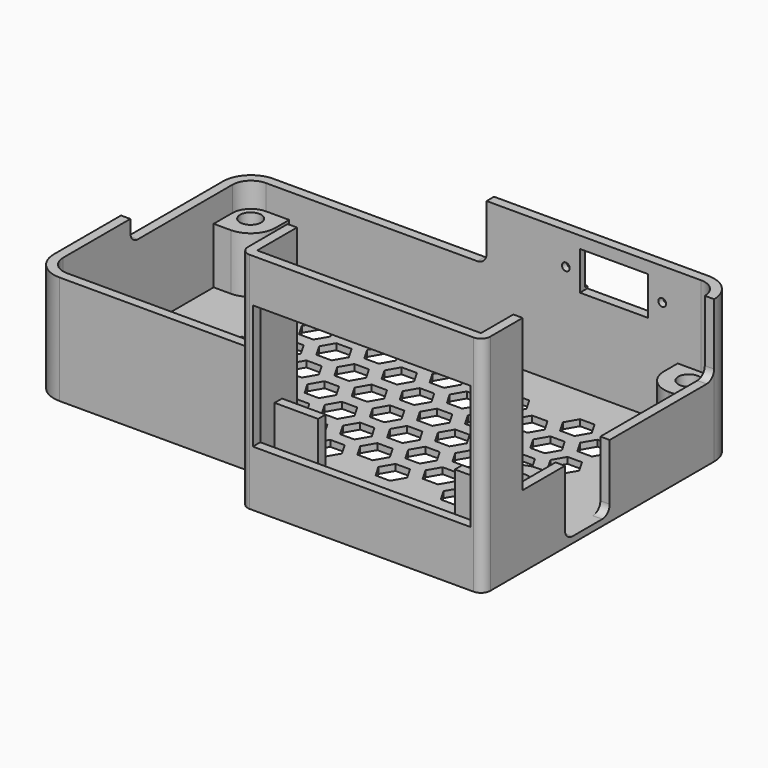
from build123d import *

# Parameters (mm, degrees)
PAD_DEPTH                       = 36
POCKET_DEPTH                    = 35
SKETCH002_R                     = 1.7
PAD001_DEPTH                    = 9
SKETCH005_W                     = 20
SKETCH005_H                     = 5.5
POCKET001_DEPTH                 = 0.5
SKETCH006_R                     = 0.625
SKETCH006_W                     = 11
SKETCH006_H                     = 6.2
POCKET002_DEPTH                 = 5
POCKET003_DEPTH                 = 1.5
POCKET004_DEPTH                 = 5
POCKET005_DEPTH                 = 39
SKETCH011_W                     = 35
SKETCH011_H                     = 20
POCKET006_DEPTH                 = 1.5
SKETCH012_W                     = 7
SKETCH012_H                     = 1.5
PAD002_DEPTH                    = 12
POCKET008_DEPTH                 = 5
POCKET009_DEPTH                 = 5
POCKET009_LINEARPATTERN_2_DEPTH = 5
POCKET009_LINEARPATTERN_3_DEPTH = 5
POCKET009_LINEARPATTERN_4_DEPTH = 5
LINEARPATTERN001_COUNT          = 5
LINEARPATTERN001_PITCH          = 10.5


with BuildPart() as part:
    # Sketch → Pad (new body)
    with BuildSketch(Plane.XY):
        with BuildLine():
            Line((-35, 21.5), (35, 21.5))
            ThreePointArc((39.5, 17), (38.181981, 20.181981), (35, 21.5))
            Line((39.5, 17), (39.5, -28))
            ThreePointArc((38, -29.5), (39.06066, -29.06066), (39.5, -28))
            Line((38, -29.5), (2, -29.5))
            ThreePointArc((0.5, -28), (0.93934, -29.06066), (2, -29.5))
            Line((0.5, -28), (0.5, -21.5))
            Line((0.5, -21.5), (-35, -21.5))
            ThreePointArc((-39.5, -17), (-38.181981, -20.181981), (-35, -21.5))
            Line((-39.5, -17), (-39.5, 17))
            ThreePointArc((-35, 21.5), (-38.181981, 20.181981), (-39.5, 17))
        make_face()
    extrude(amount=PAD_DEPTH)

    # Sketch001 (on Face13 of Pad) → Pocket (cut)
    with BuildSketch(Plane.XY.offset(36)):
        with BuildLine():
            Line((35, 20), (-35, 20))
            ThreePointArc((-35, 20), (-37.12132, 19.12132), (-38, 17))
            Line((-38, -17), (-38, 17))
            ThreePointArc((-38, -17), (-37.12132, -19.12132), (-35, -20))
            Line((2, -20), (-35, -20))
            Line((2, -20), (2, -28))
            Line((2, -28), (38, -28))
            Line((38, -28), (38, 17))
            ThreePointArc((38, 17), (37.12132, 19.12132), (35, 20))
        make_face()
    extrude(amount=-POCKET_DEPTH, mode=Mode.SUBTRACT)

    # Sketch002 (on Face23 of Pocket) → Pad001 (join)
    with BuildSketch(Plane.XY.offset(1)):
        with BuildLine():
            Line((-35.25, 20.25), (-31.25, 20.25))
            Line((-31.25, 20.25), (-31.25, 17.25))
            ThreePointArc((-35.25, 13.25), (-32.421573, 14.421573), (-31.25, 17.25))
            Line((-35.25, 13.25), (-38.25, 13.25))
            Line((-38.25, 13.25), (-38.25, 17.25))
            ThreePointArc((-35.25, 20.25), (-37.37132, 19.37132), (-38.25, 17.25))
        make_face()
        with Locations((-35.25, 17.25)):
            Circle(SKETCH002_R, mode=Mode.SUBTRACT)
        with BuildLine():
            Line((35.25, 20.25), (31.25, 20.25))
            Line((31.25, 20.25), (31.25, 17.25))
            ThreePointArc((31.25, 17.25), (32.421573, 14.421573), (35.25, 13.25))
            Line((35.25, 13.25), (38.25, 13.25))
            Line((38.25, 13.25), (38.25, 17.25))
            ThreePointArc((38.25, 17.25), (37.37132, 19.37132), (35.25, 20.25))
        make_face()
        with Locations((35.25, 17.25)):
            Circle(SKETCH002_R, mode=Mode.SUBTRACT)
        with BuildLine():
            Line((-38, -13), (-35, -13))
            ThreePointArc((-31, -17), (-32.171573, -14.171573), (-35, -13))
            Line((-31, -17), (-31, -20))
            Line((-31, -20), (-35, -20))
            ThreePointArc((-38, -17), (-37.12132, -19.12132), (-35, -20))
            Line((-38, -17), (-38, -13))
        make_face()
        with Locations((-35.25, -17.25)):
            Circle(SKETCH002_R, mode=Mode.SUBTRACT)
        with BuildLine():
            Line((35.25, -13.25), (38.25, -13.25))
            Line((38.25, -13.25), (38.25, -17.25))
            ThreePointArc((35.25, -20.25), (37.37132, -19.37132), (38.25, -17.25))
            Line((35.25, -20.25), (31.25, -20.25))
            Line((31.25, -20.25), (31.25, -17.25))
            ThreePointArc((35.25, -13.25), (32.421573, -14.421573), (31.25, -17.25))
        make_face()
        with Locations((35.25, -17.25)):
            Circle(SKETCH002_R, mode=Mode.SUBTRACT)
    extrude(amount=PAD001_DEPTH)

    # Sketch005 → Pocket001 (cut)
    with BuildSketch(Plane(origin=(0, 21.5, 0), x_dir=(-1, 0, 0), z_dir=(0, 1, 0))):
        with Locations((-21, 18)):
            Rectangle(SKETCH005_W, SKETCH005_H)
    extrude(amount=-POCKET001_DEPTH, mode=Mode.SUBTRACT)

    # Sketch006 → Pocket002 (cut)
    with BuildSketch(Plane(origin=(0, 21.5, 0), x_dir=(-1, 0, 0), z_dir=(0, 1, 0))):
        with Locations((-13.25, 17.825)):
            Circle(SKETCH006_R)
        with Locations((-28.75, 17.825)):
            Circle(SKETCH006_R)
        with Locations((-21, 18)):
            Rectangle(SKETCH006_W, SKETCH006_H)
    extrude(amount=-POCKET002_DEPTH, mode=Mode.SUBTRACT)

    # Sketch007 → Pocket003 (cut)
    with BuildSketch(Plane.YZ.offset(39.5)):
        with BuildLine():
            Line((-11.5, 1), (-5.5, 1))
            ThreePointArc((-5.5, 1), (-4.43934, 1.43934), (-4, 2.5))
            Line((-4, 2.5), (-4, 11.6))
            Line((-4, 11.6), (15.5, 11.6))
            ThreePointArc((15.5, 11.6), (16.56066, 12.03934), (17, 13.1))
            Line((17, 13.1), (17, 36))
            Line((17, 36), (-21.5, 36))
            Line((-21.5, 11.6), (-21.5, 36))
            Line((-13, 11.6), (-21.5, 11.6))
            Line((-13, 2.5), (-13, 11.6))
            ThreePointArc((-13, 2.5), (-12.56066, 1.43934), (-11.5, 1))
        make_face()
    extrude(amount=-POCKET003_DEPTH, mode=Mode.SUBTRACT)

    # Sketch009 → Pocket004 (cut)
    with BuildSketch(Plane(origin=(0, 21.5, 0), x_dir=(-1, 0, 0), z_dir=(0, 1, 0))):
        with BuildLine():
            Line((-39.5, 36), (39.5, 36))
            Line((39.5, 14), (39.5, 36))
            Line((1, 14), (39.5, 14))
            ThreePointArc((-0.5, 15.5), (-0.06066, 14.43934), (1, 14))
            Line((-0.5, 23), (-0.5, 15.5))
            Line((-0.5, 23), (-39.5, 23))
            Line((-39.5, 23), (-39.5, 36))
        make_face()
    extrude(amount=-POCKET004_DEPTH, mode=Mode.SUBTRACT)

    # Sketch010 (on Face15 of Pocket004) → Pocket005 (cut)
    with BuildSketch(Plane.XZ.offset(21.5)):
        with BuildLine():
            Line((-39.5, 36), (0.5, 36))
            Line((0.5, 36), (0.5, 19))
            ThreePointArc((-1, 17.5), (0.06066, 17.93934), (0.5, 19))
            Line((-1, 17.5), (-39.5, 17.5))
            Line((-39.5, 17.5), (-39.5, 36))
        make_face()
    extrude(amount=-POCKET005_DEPTH, mode=Mode.SUBTRACT)

    # Sketch011 (on Face12 of Pocket005) → Pocket006 (cut)
    with BuildSketch(Plane.XZ.offset(29.5)):
        with Locations((20, 19)):
            Rectangle(SKETCH011_W, SKETCH011_H)
    extrude(amount=-POCKET006_DEPTH, mode=Mode.SUBTRACT)

    # Sketch012 (on Face53 of Pocket006) → Pad002 (join)
    with BuildSketch(Plane.XY.offset(1)):
        with Locations((34.5, -23.75)):
            Rectangle(SKETCH012_W, SKETCH012_H)
        with Locations((5.5, -23.75)):
            Rectangle(SKETCH012_W, SKETCH012_H)
    extrude(amount=PAD002_DEPTH)

    # Sketch014 → Pocket008 (cut)
    with BuildSketch(Plane(origin=(-39.5, 0, 0), x_dir=(0, -1, 0), z_dir=(-1, 0, 0))):
        with BuildLine():
            Line((3.5, 17.5), (-16.5, 17.5))
            Line((-16.5, 17.5), (-16.5, 14))
            Line((-16.5, 14), (2, 14))
            ThreePointArc((2, 14), (3.06066, 14.43934), (3.5, 15.5))
            Line((3.5, 15.5), (3.5, 17.5))
        make_face()
    extrude(amount=-POCKET008_DEPTH, mode=Mode.SUBTRACT)

    # Sketch013 (on Face55 of Pocket008) → Pocket009 (cut)
    with BuildSketch(Plane.XY.offset(1)):
        Polygon((-28, -9), (-26.839746, -11.009619), (-24.519238, -11.009619), (-23.358984, -9), (-24.519238, -6.990381), (-26.839746, -6.990381), align=None)
        Polygon((-18.179492, -6.009619), (-19.339746, -4), (-21.660254, -4), (-22.820508, -6.009619), (-21.660254, -8.019238), (-19.339746, -8.019238), align=None)
        Polygon((-16.480762, -6.990381), (-17.641016, -9), (-16.480762, -11.009619), (-14.160254, -11.009619), (-13, -9), (-14.160254, -6.990381), align=None)
        Polygon((-22.820508, -11.990381), (-21.660254, -14), (-19.339746, -14), (-18.179492, -11.990381), (-19.339746, -9.980762), (-21.660254, -9.980762), align=None)
    pocket009 = extrude(amount=-POCKET009_DEPTH, mode=Mode.SUBTRACT)

    # Sketch013 LinearPattern 2 → Pocket009 LinearPattern 2 (cut)
    with BuildSketch(Plane(origin=(0, 6, 1), x_dir=(1, 0, 0), z_dir=(0, 0, 1))):
        Polygon((-28, -9), (-26.839746, -11.009619), (-24.519238, -11.009619), (-23.358984, -9), (-24.519238, -6.990381), (-26.839746, -6.990381), align=None)
        Polygon((-18.179492, -6.009619), (-19.339746, -4), (-21.660254, -4), (-22.820508, -6.009619), (-21.660254, -8.019238), (-19.339746, -8.019238), align=None)
        Polygon((-16.480762, -6.990381), (-17.641016, -9), (-16.480762, -11.009619), (-14.160254, -11.009619), (-13, -9), (-14.160254, -6.990381), align=None)
        Polygon((-22.820508, -11.990381), (-21.660254, -14), (-19.339746, -14), (-18.179492, -11.990381), (-19.339746, -9.980762), (-21.660254, -9.980762), align=None)
    pocket009_linearpattern_2 = extrude(amount=-POCKET009_LINEARPATTERN_2_DEPTH, mode=Mode.SUBTRACT)

    # Sketch013 LinearPattern 3 → Pocket009 LinearPattern 3 (cut)
    with BuildSketch(Plane(origin=(0, 12, 1), x_dir=(1, 0, 0), z_dir=(0, 0, 1))):
        Polygon((-28, -9), (-26.839746, -11.009619), (-24.519238, -11.009619), (-23.358984, -9), (-24.519238, -6.990381), (-26.839746, -6.990381), align=None)
        Polygon((-18.179492, -6.009619), (-19.339746, -4), (-21.660254, -4), (-22.820508, -6.009619), (-21.660254, -8.019238), (-19.339746, -8.019238), align=None)
        Polygon((-16.480762, -6.990381), (-17.641016, -9), (-16.480762, -11.009619), (-14.160254, -11.009619), (-13, -9), (-14.160254, -6.990381), align=None)
        Polygon((-22.820508, -11.990381), (-21.660254, -14), (-19.339746, -14), (-18.179492, -11.990381), (-19.339746, -9.980762), (-21.660254, -9.980762), align=None)
    pocket009_linearpattern_3 = extrude(amount=-POCKET009_LINEARPATTERN_3_DEPTH, mode=Mode.SUBTRACT)

    # Sketch013 LinearPattern 4 → Pocket009 LinearPattern 4 (cut)
    with BuildSketch(Plane(origin=(0, 18, 1), x_dir=(1, 0, 0), z_dir=(0, 0, 1))):
        Polygon((-28, -9), (-26.839746, -11.009619), (-24.519238, -11.009619), (-23.358984, -9), (-24.519238, -6.990381), (-26.839746, -6.990381), align=None)
        Polygon((-18.179492, -6.009619), (-19.339746, -4), (-21.660254, -4), (-22.820508, -6.009619), (-21.660254, -8.019238), (-19.339746, -8.019238), align=None)
        Polygon((-16.480762, -6.990381), (-17.641016, -9), (-16.480762, -11.009619), (-14.160254, -11.009619), (-13, -9), (-14.160254, -6.990381), align=None)
        Polygon((-22.820508, -11.990381), (-21.660254, -14), (-19.339746, -14), (-18.179492, -11.990381), (-19.339746, -9.980762), (-21.660254, -9.980762), align=None)
    pocket009_linearpattern_4 = extrude(amount=-POCKET009_LINEARPATTERN_4_DEPTH, mode=Mode.SUBTRACT)

    # LinearPattern001: Pocket009, Pocket009 LinearPattern 2, Pocket009 LinearPattern 3, Pocket009 LinearPattern 4 ×5
    with Locations(*[(i * LINEARPATTERN001_PITCH, 0, 0) for i in range(1, LINEARPATTERN001_COUNT)]):
        add(pocket009, mode=Mode.SUBTRACT)
        add(pocket009_linearpattern_2, mode=Mode.SUBTRACT)
        add(pocket009_linearpattern_3, mode=Mode.SUBTRACT)
        add(pocket009_linearpattern_4, mode=Mode.SUBTRACT)


solid = part.part
